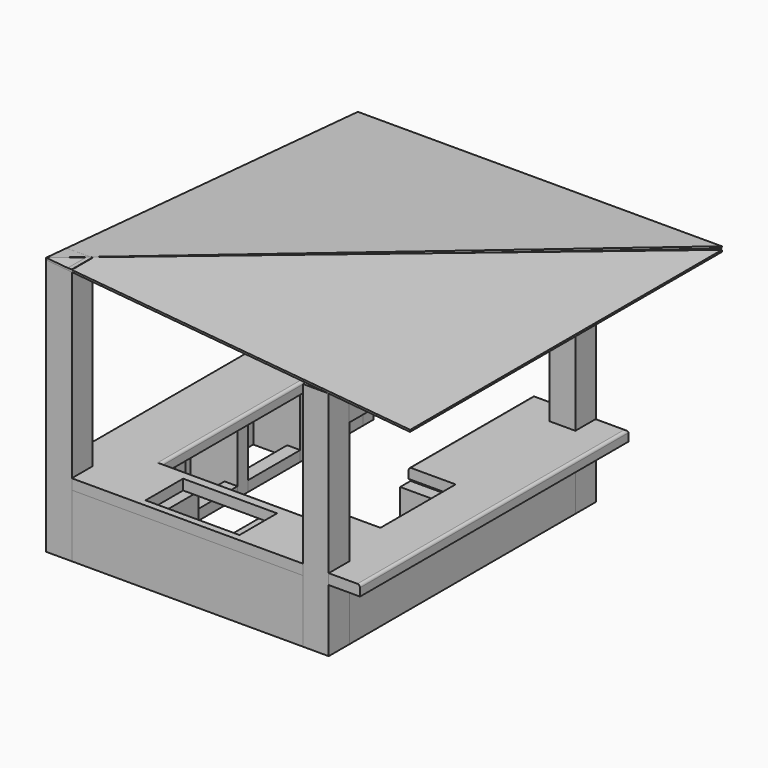
from build123d import *

# Parameters (mm, degrees)
F1_DEPTH  = 2500
F2_DEPTH  = 2250
F3_DEPTH  = 2250
F4_DEPTH  = 2250
F5_DEPTH  = 609.6
F0_W      = 127
F0_H      = 635
F6_DEPTH  = 101.6
F0_H_2    = 252.8
F0_W_2    = 635
F0_H_3    = 127
F0_H_4    = 252.6044269804
F0_W_3    = 127.2
F7_W      = 1508.4825573363
F7_H      = 625.393493561
F8_DEPTH  = 101.6
F9_R      = 25.4
F13_DEPTH = 250
F15_DEPTH = 250
F17_DEPTH = 19.05
F19_DEPTH = 19.05
F20_W     = 457.2
F20_H     = 914.4
F21_DEPTH = 101.6
F22_W     = 914.4
F22_H     = 457.2
F23_DEPTH = 101.6


with BuildPart() as f1:
    # F0 (on Top) → F1 (new body)
    with BuildSketch(Plane.XY):
        Polygon((0, 250), (0, 0), (250, 0), (250, 127), (250, 250), (127, 250), align=None)
    extrude(amount=F1_DEPTH)


with BuildPart() as f2:
    # F0 (on Top) → F2 (new body)
    with BuildSketch(Plane.XY):
        Polygon((0, 3250), (0, 3000), (127, 3000), (250, 3000), (250, 3123), (250, 3250), (127, 3250), align=None)
    extrude(amount=F2_DEPTH)


with BuildPart() as f3:
    # F0 (on Top) → F3 (new body)
    with BuildSketch(Plane.XY):
        Polygon((2500, 127), (2500, 0), (2750, 0), (2750, 127), (2750, 250), (2623, 250), (2500, 250), align=None)
    extrude(amount=F3_DEPTH)


with BuildPart() as f4:
    # F0 (on Top) → F4 (new body)
    with BuildSketch(Plane.XY):
        Polygon((2623, 3000), (2750, 3000), (2750, 3250), (2623, 3250), (2500, 3250), (2500, 3123), (2500, 3000), align=None)
    extrude(amount=F4_DEPTH)


with BuildPart() as f5:
    # F0 (on Top) → F5 (new body)
    with BuildSketch(Plane.XY):
        Polygon((584.2, 3250), (250, 3250), (250, 3123), (457.2, 3123), (584.2, 3123), align=None)
    extrude(amount=F5_DEPTH)


with BuildPart() as f5b:
    # F0 (on Top) → F5, piece 2 (new body)
    with BuildSketch(Plane.XY):
        Polygon((0, 3000), (0, 250), (127, 250), (127, 837), (127, 964), (127, 1599), (127, 1726), (127, 2361), (127, 2488), (127, 3000), align=None)
        Polygon((457.2, 2488), (127, 2488), (127, 2361), (457.2, 2361), (584.2, 2361), (584.2, 2488), align=None)
        Polygon((127, 1726), (127, 1599), (457.2, 1599), (584.2, 1599), (584.2, 1726), (457.2, 1726), align=None)
        Polygon((127, 964), (127, 837), (457.2, 837), (584.2, 837), (584.2, 964), (457.2, 964), align=None)
    extrude(amount=F5_DEPTH)


with BuildPart() as f5c:
    # F0 (on Top) → F5, piece 3 (new body)
    with BuildSketch(Plane.XY):
        Polygon((889, 457.2), (889, 127), (1016, 127), (1016, 457.2), (1016, 584.2), (889, 584.2), align=None)
        Polygon((1651, 127), (1778, 127), (1778, 457.2), (1778, 584.2), (1651, 584.2), (1651, 457.2), align=None)
        Polygon((250, 127), (250, 0), (2500, 0), (2500, 127), (1778, 127), (1651, 127), (1016, 127), (889, 127), align=None)
    extrude(amount=F5_DEPTH)


with BuildPart() as f5d:
    # F0 (on Top) → F5, piece 4 (new body)
    with BuildSketch(Plane.XY):
        Polygon((2623, 836.8044269804), (2623, 250), (2750, 250), (2750, 3000), (2623, 3000), (2623, 2488), (2623, 2361), (2623, 1726), (2623, 1599), (2623, 964), (2623.2, 964), (2623.2, 836.8044269804), align=None)
        Polygon((2293, 1599), (2623, 1599), (2623, 1726), (2293, 1726), (2166, 1726), (2166, 1599), align=None)
        Polygon((2623, 2361), (2623, 2488), (2293, 2488), (2165.8, 2488), (2165.8, 2361), (2166, 2361), (2293, 2361), align=None)
    extrude(amount=F5_DEPTH)


with BuildPart() as f5e:
    # F0 (on Top) → F5, piece 5 (new body)
    with BuildSketch(Plane.XY):
        Polygon((2293, 836.8044269804), (2623, 836.8044269804), (2623, 964), (2293, 964), (2166, 964), (2166, 836.8044269804), align=None)
    extrude(amount=F5_DEPTH)


with BuildPart() as f5f:
    # F0 (on Top) → F5, piece 6 (new body)
    with BuildSketch(Plane.XY):
        Polygon((2293, 3123), (2500, 3123), (2500, 3250), (2165.8, 3250), (2165.8, 3123), align=None)
    extrude(amount=F5_DEPTH)


with BuildPart() as f6:
    # F0 (on Top) → F6 (new body)
    with BuildSketch(Plane.XY):
        with Locations((520.7, 2805.5)):
            Rectangle(F0_W, F0_H)
    extrude(amount=F6_DEPTH)


with BuildPart() as f6b:
    # F0 (on Top) → F6, piece 2 (new body)
    with BuildSketch(Plane.XY):
        with Locations((520.7, 2043.5)):
            Rectangle(F0_W, F0_H)
    extrude(amount=F6_DEPTH)


with BuildPart() as f6c:
    # F0 (on Top) → F6, piece 3 (new body)
    with BuildSketch(Plane.XY):
        with Locations((520.7, 1281.5)):
            Rectangle(F0_W, F0_H)
    extrude(amount=F6_DEPTH)


with BuildPart() as f6d:
    # F0 (on Top) → F6, piece 4 (new body)
    with BuildSketch(Plane.XY):
        with Locations((520.7, 710.6)):
            Rectangle(F0_W, F0_H_2)
        Polygon((457.2, 457.2), (889, 457.2), (889, 584.2), (584.2, 584.2), (457.2, 584.2), align=None)
    extrude(amount=F6_DEPTH)


with BuildPart() as f6e:
    # F0 (on Top) → F6, piece 5 (new body)
    with BuildSketch(Plane.XY):
        with Locations((1333.5, 520.7)):
            Rectangle(F0_W_2, F0_H_3)
    extrude(amount=F6_DEPTH)


with BuildPart() as f6f:
    # F0 (on Top) → F6, piece 6 (new body)
    with BuildSketch(Plane.XY):
        Polygon((1778, 584.2), (1778, 457.2), (2293, 457.2), (2293, 584.2), (2166, 584.2), align=None)
        with Locations((2229.5, 710.5022134902)):
            Rectangle(F0_W, F0_H_4)
    extrude(amount=F6_DEPTH)


with BuildPart() as f6g:
    # F0 (on Top) → F6, piece 7 (new body)
    with BuildSketch(Plane.XY):
        with Locations((2229.5, 1281.5)):
            Rectangle(F0_W, F0_H)
    extrude(amount=F6_DEPTH)


with BuildPart() as f6h:
    # F0 (on Top) → F6, piece 8 (new body)
    with BuildSketch(Plane.XY):
        with Locations((2229.5, 2043.5)):
            Rectangle(F0_W, F0_H)
    extrude(amount=F6_DEPTH)


with BuildPart() as f6i:
    # F0 (on Top) → F6, piece 9 (new body)
    with BuildSketch(Plane.XY):
        with Locations((2229.4, 2805.5)):
            Rectangle(F0_W_3, F0_H)
    extrude(amount=F6_DEPTH)


with BuildPart() as f8:
    # F7 (on face) → F8 (new body)
    with BuildSketch(Plane.XY.offset(609.6)):
        Polygon((0, 3250), (0, 0), (625, 0), (625, 625.393493561), (625, 3250), align=None)
        with Locations((1379.2412786681, 312.6967467805)):
            Rectangle(F7_W, F7_H)
        Polygon((2133.4825573363, 625.393493561), (2133.4825573363, 0), (3054.8, 0), (3054.8, 3263.7054706946), (2133.4825573363, 3263.7054706946), align=None)
    extrude(amount=F8_DEPTH)

    # F9
    f9_edges = [f8.edges().sort_by_distance(p)[0] for p in [
        (3054.8, 1631.852735, 711.2),
        (2594.141279, 3263.705471, 711.2),
        (625, 1937.696747, 711.2),
        (312.5, 3250, 711.2),
        (1379.241279, 625.393494, 711.2),
        (2133.482557, 1944.549482, 711.2),
    ]]
    fillet(f9_edges, radius=F9_R)

    # F20 (on face) → F21 (cut, through all)
    with BuildSketch(Plane.XY.offset(711.2)):
        with Locations((2362.0825573363, 1285.793493561)):
            Rectangle(F20_W, F20_H)
    extrude(amount=-F21_DEPTH, mode=Mode.SUBTRACT)

    # F22 (on face) → F23 (cut, through all)
    with BuildSketch(Plane.XY.offset(711.2)):
        with Locations((1371.4825573363, 295.193493561)):
            Rectangle(F22_W, F22_H)
    extrude(amount=-F23_DEPTH, mode=Mode.SUBTRACT)

    # F24: cut F2, F4, F3, F1
    add(f2.part, mode=Mode.SUBTRACT)
    add(f4.part, mode=Mode.SUBTRACT)
    add(f3.part, mode=Mode.SUBTRACT)
    add(f1.part, mode=Mode.SUBTRACT)


with BuildPart() as f13:
    # F12 (on face) → F13 (new body)
    with BuildSketch(Plane.YZ.offset(2750)):
        with BuildLine():
            Line((247.2558619949, 2250), (247.2558619949, 1900))
            Line((247.2558619949, 1900), (497.2558619949, 1900))
            ThreePointArc((497.2558619949, 1900), (1623.6279309974, 2050), (2750, 1900))
            Line((2750, 1900), (3000, 1900))
            Line((3000, 1900), (3000, 2250))
            Line((3000, 2250), (247.2558619949, 2250))
        make_face()
    extrude(amount=-F13_DEPTH)


with BuildPart() as f15:
    # F14 (on face) → F15 (new body)
    with BuildSketch(Plane(origin=(0, 3250, 0), x_dir=(-1, 0, 0), z_dir=(0, 1, 0))):
        with BuildLine():
            Line((-248.9643245936, 2245.820865417), (-2500, 2250))
            Line((-2500, 2250), (-2500, 1900))
            Line((-2500, 1900), (-2250, 1900))
            ThreePointArc((-2250, 1900), (-1374.4821622968, 2047.9054948492), (-498.9643245936, 1900))
            Line((-498.9643245936, 1900), (-248.9643245936, 1900))
            Line((-248.9643245936, 1900), (-248.9643245936, 2245.820865417))
        make_face()
    extrude(amount=-F15_DEPTH)


with BuildPart() as f17:
    # F16 (on 3pt) → F17 (new body)
    with BuildSketch(Plane(origin=(0, 191.1764705882, 2485.2941176471), x_dir=(1, 0, 0), z_dir=(0, 0.0766964989, 0.9970544855))):
        Polygon((0, 3609.922170639), (0, -191.6475147009), (3541.1608219147, 3609.922170639), align=None)
    extrude(amount=F17_DEPTH)


with BuildPart() as f19:
    # F18 (on 3pt) → F19 (new body)
    with BuildSketch(Plane(origin=(225.4098360656, 0, 2479.5081967213), x_dir=(0.9958932065, 0, -0.090535746), z_dir=(0.090535746, 0, 0.9958932065))):
        Polygon((3329.1909694672, 3791.7137145996), (-226.3661175966, 0), (3329.1909694672, 0), align=None)
    extrude(amount=F19_DEPTH)


solid = Compound([f1.part, f2.part, f3.part, f4.part, f5.part, f5b.part, f5c.part, f5d.part, f5e.part, f5f.part, f6.part, f6b.part, f6c.part, f6d.part, f6e.part, f6f.part, f6g.part, f6h.part, f6i.part, f8.part, f13.part, f15.part, f17.part, f19.part])
